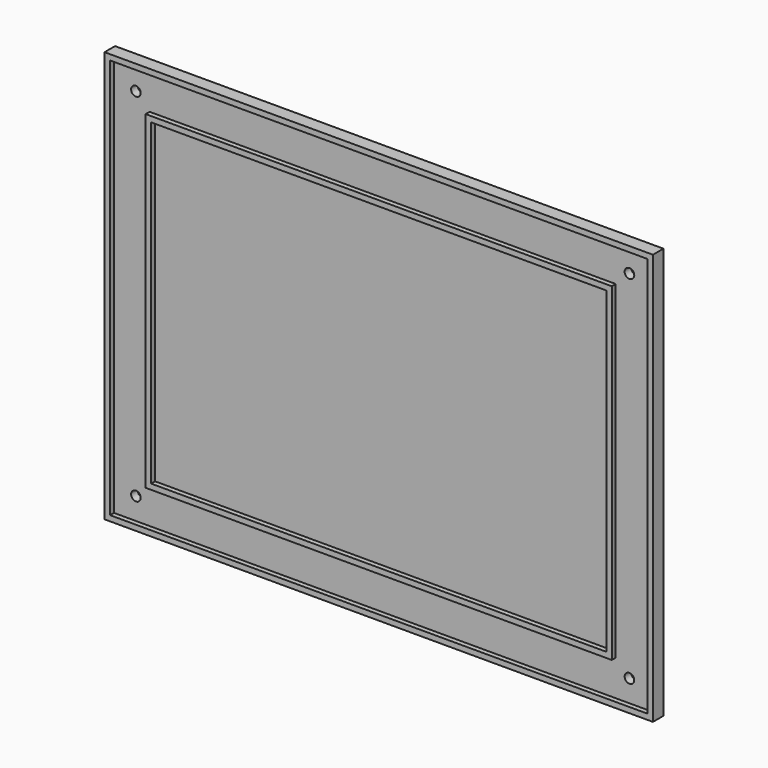
from build123d import *

# Parameters (mm, degrees)
F0_W     = 200
F0_H     = 150
F0_R     = 1.75
F1_DEPTH = 3
F2_W     = 200
F2_H     = 150
F2_W_2   = 196
F2_H_2   = 146
F2_W_3   = 170
F2_H_3   = 120
F2_W_4   = 166
F2_H_4   = 116
F3_DEPTH = 1.8


with BuildPart() as f1:
    # F0 (on Front) → F1 (new body)
    with BuildSketch(Plane.XZ):
        with Locations((8.041905, 12.458743)):
            Rectangle(F0_W, F0_H)
        with Locations((-81.958095, -52.541257)):
            Circle(F0_R, mode=Mode.SUBTRACT)
        with Locations((98.041905, -52.541257)):
            Circle(F0_R, mode=Mode.SUBTRACT)
        with Locations((-81.958095, 77.458743)):
            Circle(F0_R, mode=Mode.SUBTRACT)
        with Locations((98.041905, 77.458743)):
            Circle(F0_R, mode=Mode.SUBTRACT)
    extrude(amount=F1_DEPTH)

    # F2 (on face) → F3 (join)
    with BuildSketch(Plane.XZ.offset(3)):
        with Locations((8.041905, 12.458743)):
            Rectangle(F2_W, F2_H)
        with Locations((8.041905, 12.458743)):
            Rectangle(F2_W_2, F2_H_2, mode=Mode.SUBTRACT)
        with Locations((8.041905, 12.458743)):
            Rectangle(F2_W_3, F2_H_3)
        with Locations((8.041905, 12.458743)):
            Rectangle(F2_W_4, F2_H_4, mode=Mode.SUBTRACT)
    extrude(amount=F3_DEPTH)


solid = f1.part
